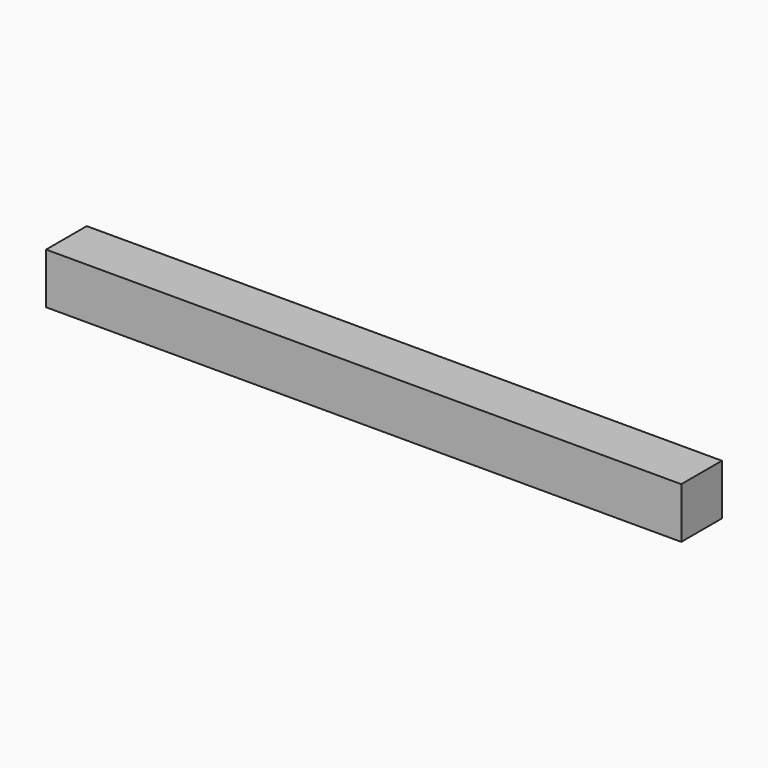
from build123d import *

# Parameters (mm, degrees)
F0_W     = 15.875
F0_H     = 2.54
F1_DEPTH = 1.27


with BuildPart() as f1:
    # F0 (on Front) → F1 (new body, symmetric)
    with BuildSketch(Plane.XZ):
        with Locations((7.9375, 1.27)):
            Rectangle(F0_W, F0_H)
        with Locations((-7.9375, 1.27)):
            Rectangle(F0_W, F0_H)
    extrude(amount=F1_DEPTH, both=True)


solid = f1.part
